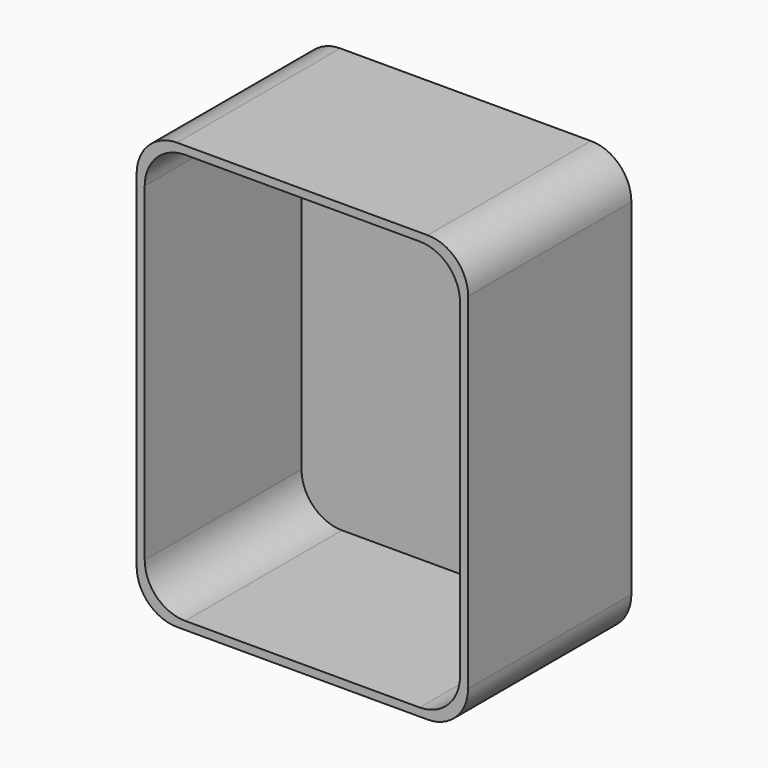
from build123d import *

# Parameters (mm, degrees)
BOX025_W     = 78
BOX025_H     = 50.5
BOX025_DEPTH = 101.5
FILLET028_R  = 10
BOX024_W     = 82
BOX024_H     = 50.5
BOX024_DEPTH = 105.5
FILLET027_R  = 10


with BuildPart() as innerboxcut002:
    # Box025 → Box025 (new body)
    with BuildSketch(Plane(origin=(78, 24, -13.75), x_dir=(-1, 0, 0), z_dir=(0, 0, 1))):
        with Locations((39, 25.25)):
            Rectangle(BOX025_W, BOX025_H)
    extrude(amount=BOX025_DEPTH)

    # Fillet028
    fillet028_edges = [innerboxcut002.edges().sort_by_distance(p)[0] for p in [
        (78, -1.25, 87.75),
        (78, -1.25, -13.75),
        (0, -1.25, 87.75),
        (0, -1.25, -13.75),
    ]]
    fillet(fillet028_edges, radius=FILLET028_R)


with BuildPart() as outershellbottomcut:
    # Box024 → Box024 (new body)
    with BuildSketch(Plane(origin=(80, 26, -15.75), x_dir=(-1, 0, 0), z_dir=(0, 0, 1))):
        with Locations((41, 25.25)):
            Rectangle(BOX024_W, BOX024_H)
    extrude(amount=BOX024_DEPTH)

    # Fillet027
    fillet027_edges = [outershellbottomcut.edges().sort_by_distance(p)[0] for p in [
        (80, 0.75, 89.75),
        (80, 0.75, -15.75),
        (-2, 0.75, 89.75),
        (-2, 0.75, -15.75),
    ]]
    fillet(fillet027_edges, radius=FILLET027_R)

    # Cut007: cut innerBoxCut002
    add(innerboxcut002.part, mode=Mode.SUBTRACT)


solid = outershellbottomcut.part
